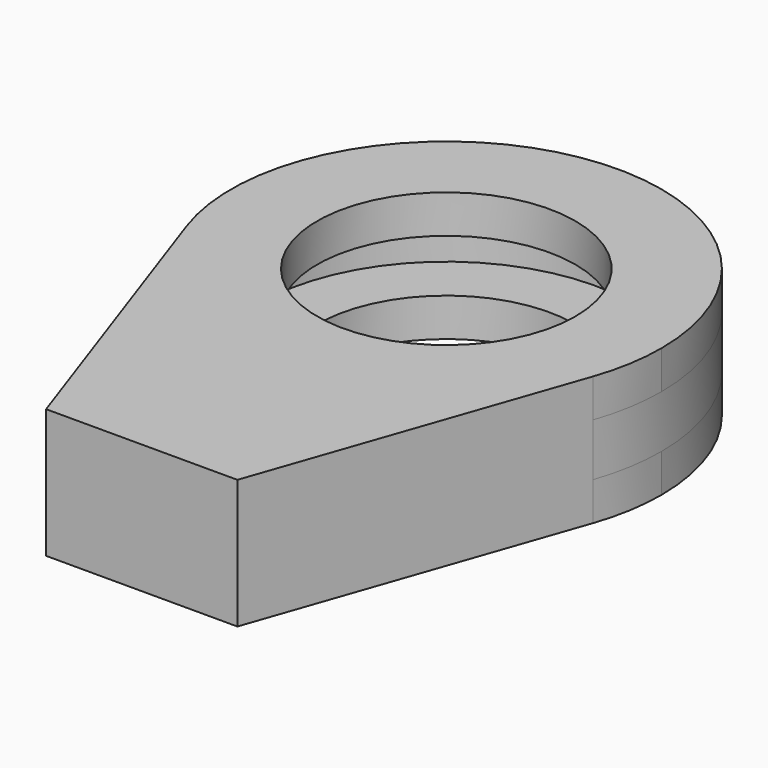
from build123d import *

# Parameters (mm, degrees)
F0_R     = 13.5
F1_DEPTH = 4
F3_DEPTH = 5.5
F4_R     = 13.5
F5_DEPTH = 4


with BuildPart() as f1:
    # F0 (on Top) → F1 (new body)
    with BuildSketch(Plane.XY):
        with BuildLine():
            ThreePointArc((21.255276, -7.379922), (22.186637, -3.742078), (22.5, 0))
            ThreePointArc((22.5, 0), (-3.742078, 22.186637), (-21.255276, -7.379922))
            ThreePointArc((-21.255276, -7.379922), (0, -22.5), (21.255276, -7.379922))
        make_face()
        Circle(F0_R, mode=Mode.SUBTRACT)
        with BuildLine():
            ThreePointArc((21.255276, -7.379922), (0, -22.5), (-21.255276, -7.379922))
            Line((-21.255276, -7.379922), (-10, -39.796796))
            Line((-10, -39.796796), (0, -39.796796))
            Line((0, -39.796796), (10, -39.796796))
            Line((10, -39.796796), (21.255276, -7.379922))
        make_face()
    extrude(amount=F1_DEPTH)

    # F2 (on face) → F3 (join)
    with BuildSketch(Plane.XY.offset(4)):
        with BuildLine():
            Line((10, -39.796796), (21.255276, -7.379922))
            ThreePointArc((21.255276, -7.379922), (0, 22.5), (-21.255276, -7.379922))
            Line((-21.255276, -7.379922), (-10, -39.796796))
            Line((-10, -39.796796), (10, -39.796796))
        make_face()
        with BuildLine():
            ThreePointArc((-18.421239, -6.395932), (-3.243134, 19.228419), (19.5, 0))
            ThreePointArc((19.5, 0), (19.228419, -3.243134), (18.421239, -6.395932))
            Line((18.421239, -6.395932), (10.707315, -28.613186))
            Line((10.707315, -28.613186), (-10.707315, -28.613186))
            Line((-10.707315, -28.613186), (-18.421239, -6.395932))
        make_face(mode=Mode.SUBTRACT)
    extrude(amount=F3_DEPTH)

    # F4 (on face) + F0 (on Top) → F5 (join)
    with BuildSketch(Plane.XY.offset(9.5)):
        with BuildLine():
            ThreePointArc((21.255276, -7.379922), (22.186637, -3.742078), (22.5, 0))
            ThreePointArc((22.5, 0), (-3.742078, 22.186637), (-21.255276, -7.379922))
            ThreePointArc((-21.255276, -7.379922), (0, -22.5), (21.255276, -7.379922))
        make_face()
        Circle(F4_R, mode=Mode.SUBTRACT)
        with BuildLine():
            ThreePointArc((21.255276, -7.379922), (22.186637, -3.742078), (22.5, 0))
            ThreePointArc((22.5, 0), (-3.742078, 22.186637), (-21.255276, -7.379922))
            ThreePointArc((-21.255276, -7.379922), (0, -22.5), (21.255276, -7.379922))
        make_face()
        Circle(F4_R, mode=Mode.SUBTRACT)
        with BuildLine():
            ThreePointArc((21.255276, -7.379922), (0, -22.5), (-21.255276, -7.379922))
            Line((-21.255276, -7.379922), (-10, -39.796796))
            Line((-10, -39.796796), (0, -39.796796))
            Line((0, -39.796796), (10, -39.796796))
            Line((10, -39.796796), (21.255276, -7.379922))
        make_face()
        with BuildLine():
            ThreePointArc((21.255276, -7.379922), (0, -22.5), (-21.255276, -7.379922))
            Line((-21.255276, -7.379922), (-10, -39.796796))
            Line((-10, -39.796796), (0, -39.796796))
            Line((0, -39.796796), (10, -39.796796))
            Line((10, -39.796796), (21.255276, -7.379922))
        make_face()
    with BuildSketch(Plane.XY):
        with BuildLine():
            ThreePointArc((21.255276, -7.379922), (22.186637, -3.742078), (22.5, 0))
            ThreePointArc((22.5, 0), (-3.742078, 22.186637), (-21.255276, -7.379922))
            ThreePointArc((-21.255276, -7.379922), (0, -22.5), (21.255276, -7.379922))
        make_face()
        Circle(F0_R, mode=Mode.SUBTRACT)
        with BuildLine():
            ThreePointArc((21.255276, -7.379922), (0, -22.5), (-21.255276, -7.379922))
            Line((-21.255276, -7.379922), (-10, -39.796796))
            Line((-10, -39.796796), (0, -39.796796))
            Line((0, -39.796796), (10, -39.796796))
            Line((10, -39.796796), (21.255276, -7.379922))
        make_face()
    extrude(amount=F5_DEPTH)


solid = f1.part
